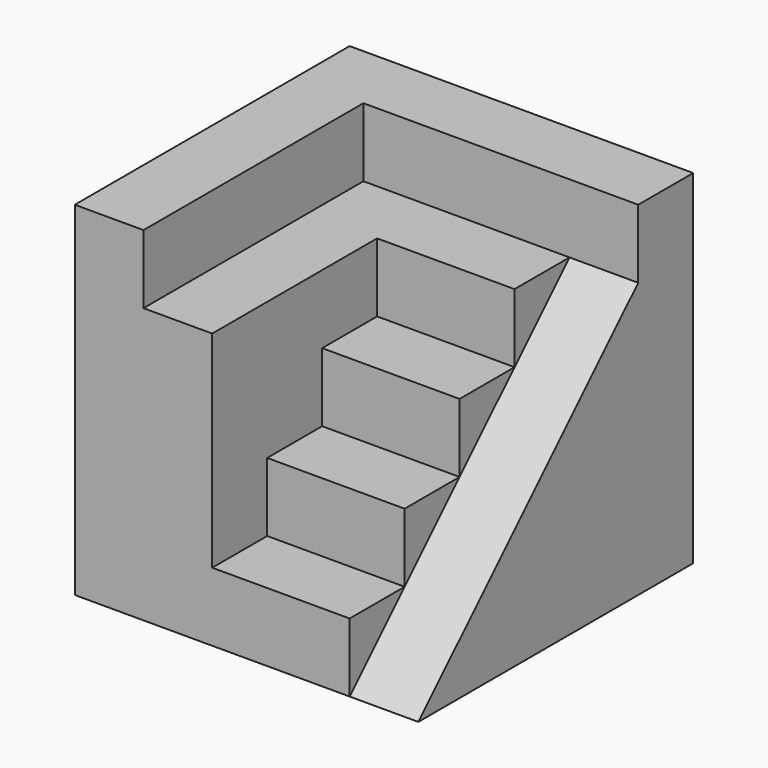
from build123d import *

# Parameters (mm, degrees)
F1_DEPTH = 32
F3_DEPTH = 25
F4_DEPTH = 40
F0_W     = 8
F0_H     = 8
F5_DEPTH = 40
F6_DEPTH = 32
F0_W_2   = 16
F7_DEPTH = 24
F8_DEPTH = 16
F9_DEPTH = 8


with BuildPart() as f1:
    # F0 (on Top) → F1 (new body)
    with BuildSketch(Plane.XY):
        Polygon((20, 12), (12, 12), (12, 4), (12, -4), (12, -12), (12, -20), (20, -20), align=None)
    extrude(amount=F1_DEPTH)

    # F2 (on face) → F3 (cut)
    with BuildSketch(Plane.YZ.offset(20)):
        Polygon((-20, 0), (12, 32), (-20, 32), align=None)
    extrude(amount=-F3_DEPTH, mode=Mode.SUBTRACT)

    # F0 (on Top) → F4 (join)
    with BuildSketch(Plane.XY):
        Polygon((12, 20), (-20, 20), (-20, -20), (-12, -20), (-12, 12), (12, 12), align=None)
    extrude(amount=F4_DEPTH)

    # F0 (on Top) → F5 (join)
    with BuildSketch(Plane.XY):
        with Locations((16, 16)):
            Rectangle(F0_W, F0_H)
    extrude(amount=F5_DEPTH)

    # F0 (on Top) → F6 (join)
    with BuildSketch(Plane.XY):
        Polygon((12, 4), (12, 12), (-12, 12), (-12, -20), (-4, -20), (-4, -12), (-4, -4), (-4, 4), align=None)
    extrude(amount=F6_DEPTH)

    # F0 (on Top) → F7 (join)
    with BuildSketch(Plane.XY):
        with Locations((4, 0)):
            Rectangle(F0_W_2, F0_H)
    extrude(amount=F7_DEPTH)

    # F0 (on Top) → F8 (join)
    with BuildSketch(Plane.XY):
        with Locations((4, -8)):
            Rectangle(F0_W_2, F0_H)
    extrude(amount=F8_DEPTH)

    # F0 (on Top) → F9 (join)
    with BuildSketch(Plane.XY):
        with Locations((4, -16)):
            Rectangle(F0_W_2, F0_H)
    extrude(amount=F9_DEPTH)


solid = f1.part
